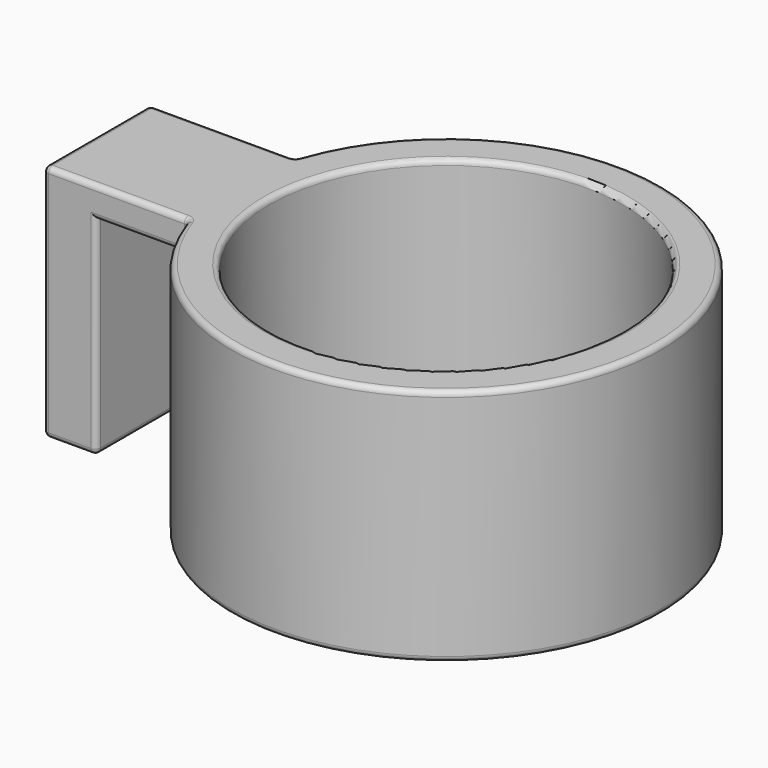
from build123d import *

# Parameters (mm, degrees)
F2_DEPTH = 12.5
F3_R     = 33.2218818367
F4_DEPTH = 39.2
F5_R     = 1


with BuildPart() as f1:
    # F0 (on Front) → F1 (revolve)
    with BuildSketch(Plane.XZ):
        Polygon((33.2218818367, 44.7680167854), (-7.1723973379, 44.7680167854), (-7.1723973379, 39.0236787498), (-7.1723973379, 0), (33.2218818367, 0), align=None)
    revolve(axis=Axis((33.2218818367, 0, 22.3840083927), (0, 0, -1)))

    # F0 (on Front) → F2 (join, symmetric)
    with BuildSketch(Plane.XZ):
        Polygon((-32.3489792645, 44.7680167854), (-32.3489792645, 0), (-22.3954468966, 0), (-22.3954468966, 39.0236787498), (-7.1723973379, 39.0236787498), (-7.1723973379, 44.7680167854), (-22.3954468966, 44.7680167854), align=None)
        Polygon((33.2218818367, 44.7680167854), (-7.1723973379, 44.7680167854), (-7.1723973379, 39.0236787498), (-7.1723973379, 0), (33.2218818367, 0), align=None)
    extrude(amount=F2_DEPTH, both=True)

    # F3 (on face) → F4 (cut)
    with BuildSketch(Plane.XY.offset(44.7680167854)):
        with Locations((33.2218818367, 0)):
            Circle(F3_R)
    extrude(amount=-F4_DEPTH, mode=Mode.SUBTRACT)

    # F5
    f5_edges = [f1.edges().sort_by_distance(p)[0] for p in [
        (73.616161, 0, 44.768017),
        (0, 0, 44.768017),
        (-18.769328, 12.5, 44.768017),
        (-32.348979, 0, 44.768017),
        (-18.769328, -12.5, 44.768017),
        (-5.189676, -12.5, 22.384008),
        (-6.181037, -12.5, 0),
        (-7.172397, -12.5, 19.511839),
        (-14.783922, -12.5, 39.023679),
        (-22.395447, -12.5, 19.511839),
        (-27.372213, -12.5, 0),
        (-32.348979, -12.5, 22.384008),
        (-32.348979, 12.5, 22.384008),
        (-32.348979, 0, 0),
        (-5.189676, 12.5, 22.384008),
        (-6.181037, 12.5, 0),
        (-7.172397, 12.5, 19.511839),
        (-14.783922, 12.5, 39.023679),
        (-22.395447, 12.5, 19.511839),
        (-27.372213, 12.5, 0),
        (73.616161, 0, 0),
        (-7.172397, 0, 0),
        (-22.395447, 0, 0),
    ]]
    fillet(f5_edges, radius=F5_R)


solid = f1.part
